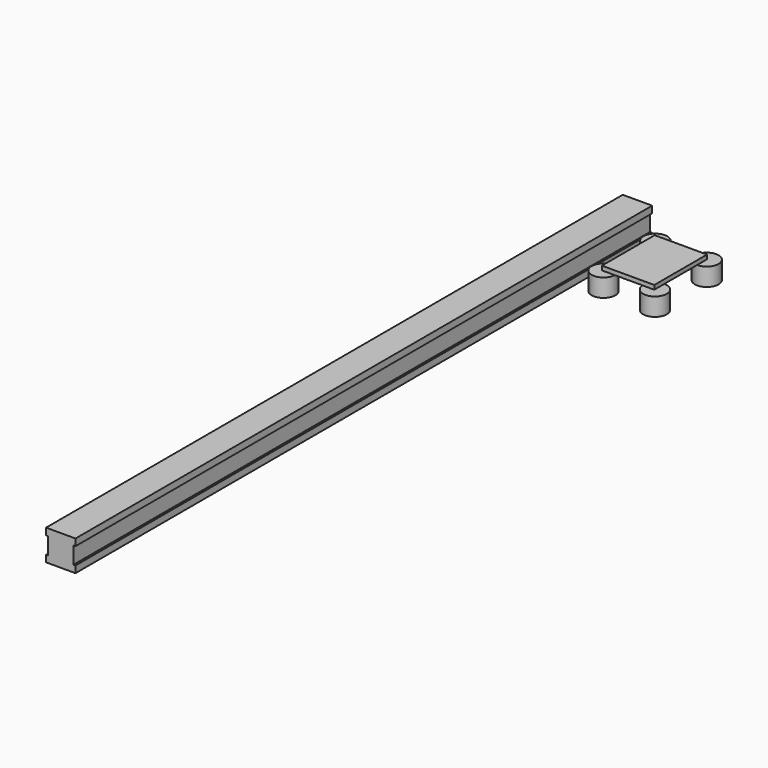
from build123d import *

# Parameters (mm, degrees)
F0_W     = 8.9209983125
F0_H     = 5.9905247763
F1_DEPTH = 254
F2_R     = 4.1810308668
F3_DEPTH = 6.35
F5_START = 6.4262
F4_W     = 18.4451695532
F4_H     = 23.2380088419
F5_DEPTH = 1.4732


with BuildPart() as f1:
    # F0 (on Front) → F1 (new body)
    with BuildSketch(Plane.XZ):
        Polygon((4.1382829659, 5.458438769), (-6.2247687019, 5.458438769), (-6.2247687019, 3.0669656117), (-5.5037420243, 3.0669656117), (3.4172562882, 3.0669656117), (4.1382829659, 3.0669656117), align=None)
        with Locations((-1.043242868, 0.0717032235)):
            Rectangle(F0_W, F0_H)
        Polygon((3.4172562882, -2.9235591646), (-5.5037420243, -2.9235591646), (-6.2247687019, -2.9235591646), (-6.2247687019, -5.315032322), (4.1382829659, -5.315032322), (4.1382829659, -2.9235591646), align=None)
    extrude(amount=F1_DEPTH)


with BuildPart() as f3:
    # F2 (on Top) → F3 (new body)
    with BuildSketch(Plane.XY):
        with Locations((18.8976201718, -17.0506061133)):
            Circle(F2_R)
    extrude(amount=F3_DEPTH)


with BuildPart() as f3b:
    # F2 (on Top) → F3, piece 2 (new body)
    with BuildSketch(Plane.XY):
        with Locations((37.0142709906, -17.0506061133)):
            Circle(F2_R)
    extrude(amount=F3_DEPTH)


with BuildPart() as f3c:
    # F2 (on Top) → F3, piece 3 (new body)
    with BuildSketch(Plane.XY):
        with Locations((37.0142709906, -39.8641667251)):
            Circle(F2_R)
    extrude(amount=F3_DEPTH)


with BuildPart() as f3d:
    # F2 (on Top) → F3, piece 4 (new body)
    with BuildSketch(Plane.XY):
        with Locations((18.8976201718, -39.8641667251)):
            Circle(F2_R)
    extrude(amount=F3_DEPTH)


with BuildPart() as f5:
    # F4 (on Top) → F5 (new body)
    with BuildSketch(Plane.XY.offset(F5_START)):
        with Locations((27.8359213844, -28.5998331383)):
            Rectangle(F4_W, F4_H)
    extrude(amount=F5_DEPTH)


solid = Compound([f1.part, f3.part, f3b.part, f3c.part, f3d.part, f5.part])
